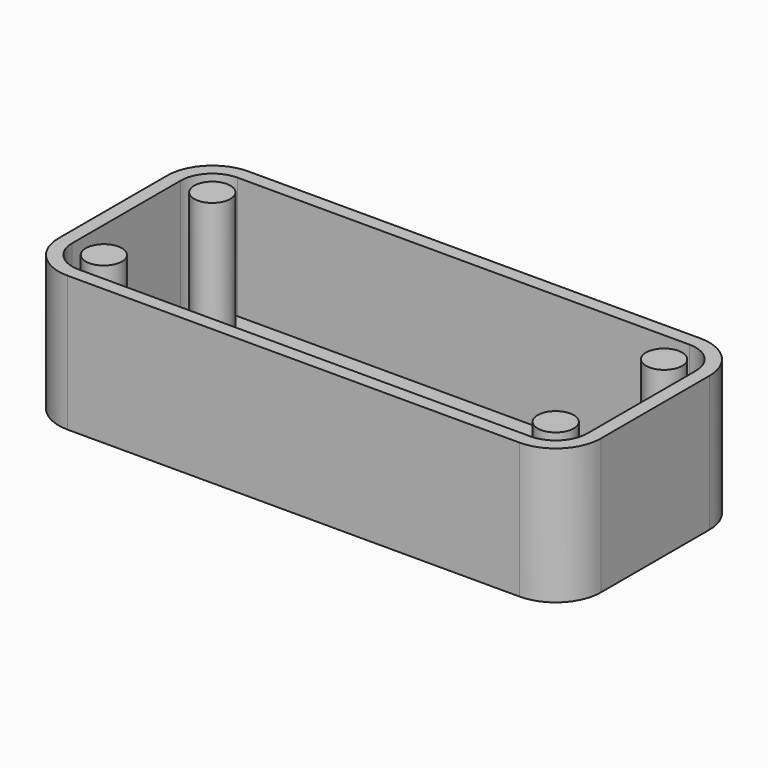
from build123d import *

# Parameters (mm, degrees)
PAD_DEPTH    = 30
THICKNESS_T  = -3
SKETCH001_R  = 4
PAD001_DEPTH = 27


with BuildPart() as part:
    # Sketch → Pad (new body)
    with BuildSketch(Plane.XY):
        with BuildLine():
            ThreePointArc((-50, 25), (-57.071068, 22.071068), (-60, 15))
            Line((-60, -15), (-60, 15))
            ThreePointArc((-60, -15), (-57.071068, -22.071068), (-50, -25))
            Line((50, -25), (-50, -25))
            ThreePointArc((50, -25), (57.071068, -22.071068), (60, -15))
            Line((60, 15), (60, -15))
            ThreePointArc((60, 15), (57.071068, 22.071068), (50, 25))
            Line((-50, 25), (50, 25))
        make_face()
    extrude(amount=PAD_DEPTH)

    # Thickness
    thickness_openings = [part.faces().sort_by_distance(p)[0] for p in [
        (0, 0, 30),
    ]]
    offset(amount=THICKNESS_T, openings=thickness_openings)

    # Sketch001 (on Face19 of Thickness) → Pad001 (join)
    with BuildSketch(Plane.XY.offset(3)):
        with Locations((-50, 15)):
            Circle(SKETCH001_R)
        with Locations((-50, -15)):
            Circle(SKETCH001_R)
        with Locations((50, 15)):
            Circle(SKETCH001_R)
        with Locations((50, -15)):
            Circle(SKETCH001_R)
    extrude(amount=PAD001_DEPTH)


solid = part.part
